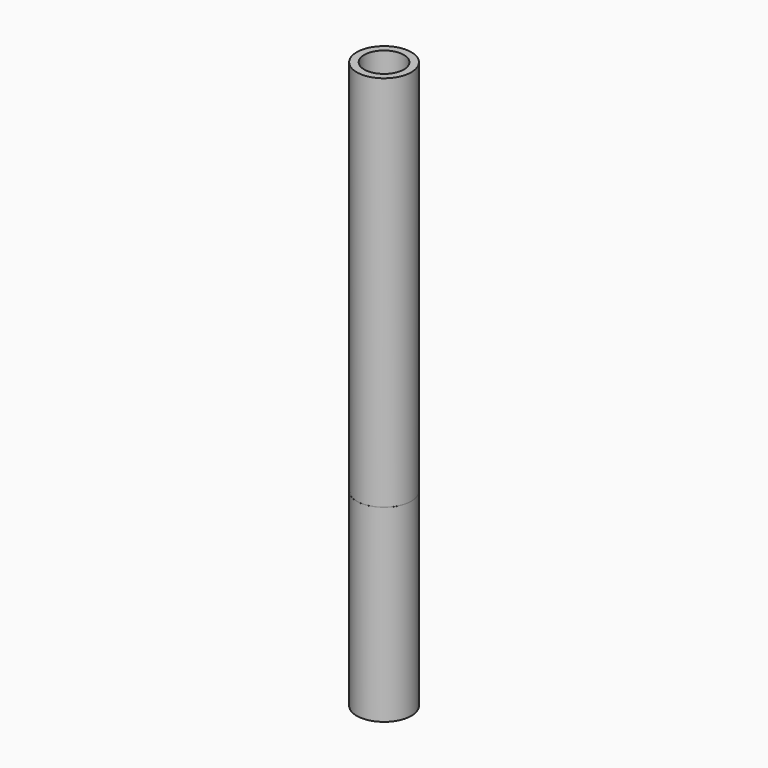
from build123d import *

# Parameters (mm, degrees)
F0_R     = 11
F0_R_2   = 8
F1_DEPTH = 228.6
F3_R     = 18.855873
F3_R_2   = 10.989529
F4_DEPTH = 0.1


with BuildPart() as f1:
    # F0 (on Top) → F1 (new body)
    with BuildSketch(Plane.XY):
        Circle(F0_R)
        Circle(F0_R_2, mode=Mode.SUBTRACT)
    extrude(amount=F1_DEPTH)

    # F3 (on offset) → F4 (cut)
    with BuildSketch(Plane.XY.offset(76.2)):
        Circle(F3_R)
        Circle(F3_R_2, mode=Mode.SUBTRACT)
    extrude(amount=F4_DEPTH, mode=Mode.SUBTRACT)


solid = f1.part
